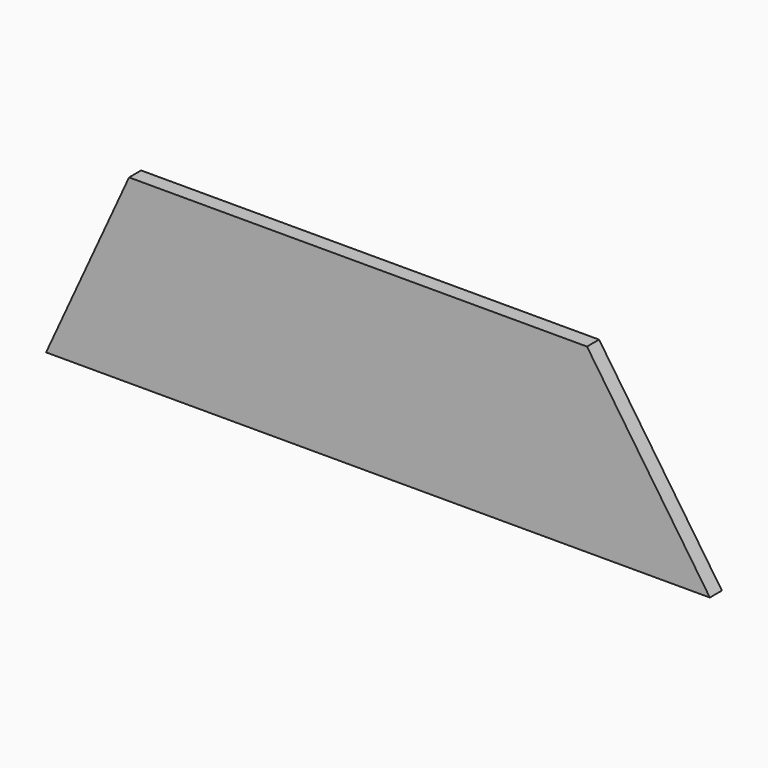
from build123d import *

# Parameters (mm, degrees)
F1_DEPTH = 6.35


with BuildPart() as f1:
    # F0 (on Front) → F1 (new body)
    with BuildSketch(Plane.XZ):
        Polygon((-103.917941, 76.2), (-138.842941, 0), (-68.992941, 0), align=None)
        Polygon((-34.067941, 76.2), (-68.992941, 0), (0, 0), align=None)
        Polygon((-103.917941, 76.2), (-68.992941, 0), (-34.067941, 76.2), align=None)
        Polygon((20.95316, 76.2), (0, 0), (73.997684, 0), align=None)
        Polygon((-34.067941, 76.2), (0, 0), (20.95316, 76.2), align=None)
        Polygon((88.846043, 76.2), (73.997684, 0), (140.557059, 0), align=None)
        Polygon((20.95316, 76.2), (73.997684, 0), (88.846043, 76.2), align=None)
    extrude(amount=F1_DEPTH)


solid = f1.part
